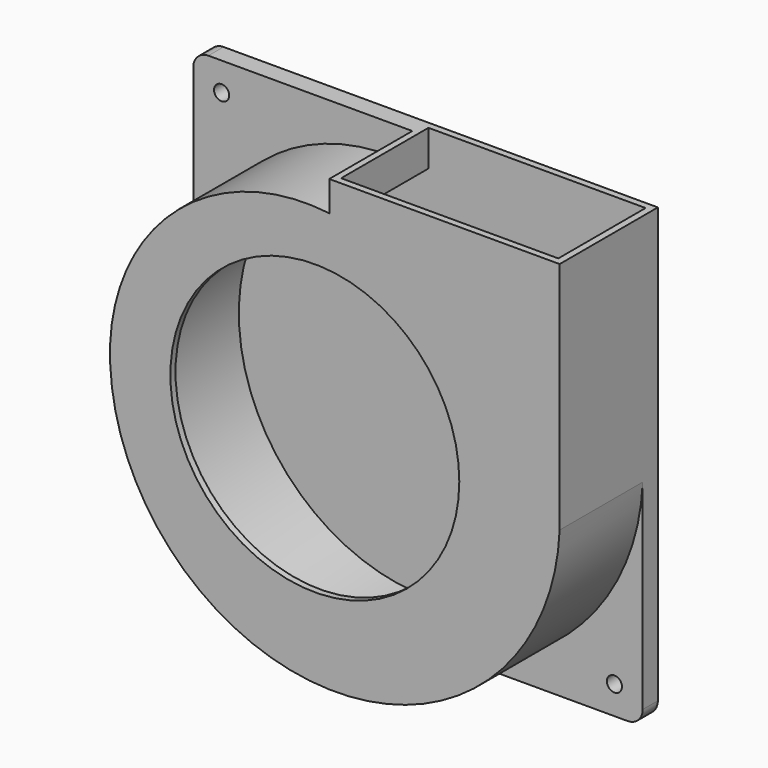
from build123d import *

# Parameters (mm, degrees)
SKETCH_W        = 119
SKETCH_H        = 119
SKETCH_R        = 2
PAD_DEPTH       = 5
SKETCH001_R     = 38.25
PAD001_DEPTH    = 27.5
SKETCH002_W     = 57.5
SKETCH002_H     = 28.9
POCKET_DEPTH    = 50
SKETCH003_R     = 50
POCKET001_DEPTH = 29
FILLET_R        = 4


with BuildPart() as part:
    # Sketch → Pad (new body)
    with BuildSketch(Plane.XZ):
        Rectangle(SKETCH_W, SKETCH_H)
        with Locations((-52, 52)):
            Circle(SKETCH_R, mode=Mode.SUBTRACT)
        with Locations((52, -52)):
            Circle(SKETCH_R, mode=Mode.SUBTRACT)
        with Locations((-52, -52)):
            Circle(SKETCH_R, mode=Mode.SUBTRACT)
    extrude(amount=PAD_DEPTH)

    # Sketch001 (on Face9 of Pad) → Pad001 (join)
    with BuildSketch(Plane.XZ.offset(5)):
        with BuildLine():
            Line((59.5, 59.5), (-1.5, 59.5))
            Line((-1.5, 59.5), (-1.5, 51.5))
            ThreePointArc((-1.5, 51.5), (-43.035261, 37.963799), (-59.5, -2.5))
            ThreePointArc((-59.5, -2.5), (-41.752557, -42.449971), (-1.5, -59.5))
            ThreePointArc((-1.5, -59.5), (40.669586, -43.488504), (59.5, -2.5))
            Line((59.5, -2.5), (59.5, 59.5))
        make_face()
        with Locations((-5.32, 0.16)):
            Circle(SKETCH001_R, mode=Mode.SUBTRACT)
    extrude(amount=PAD001_DEPTH)

    # Sketch002 (on Face10 of Pad001) → Pocket (cut)
    with BuildSketch(Plane(origin=(0, 0, 59.5), x_dir=(-1, 0, 0), z_dir=(0, 0, 1))):
        with Locations((-28.95, 16.25)):
            Rectangle(SKETCH002_W, SKETCH002_H)
    extrude(amount=-POCKET_DEPTH, mode=Mode.SUBTRACT)

    # Sketch003 (on Face13 of Pocket) → Pocket001 (cut)
    with BuildSketch(Plane.XZ.offset(1.8)):
        Circle(SKETCH003_R)
    extrude(amount=POCKET001_DEPTH, mode=Mode.SUBTRACT)

    # Fillet
    fillet_edges = [part.edges().sort_by_distance(p)[0] for p in [
        (-59.5, -2.5, 59.5),
        (-59.5, -2.5, -59.5),
        (59.5, -2.5, -59.5),
    ]]
    fillet(fillet_edges, radius=FILLET_R)


solid = part.part
